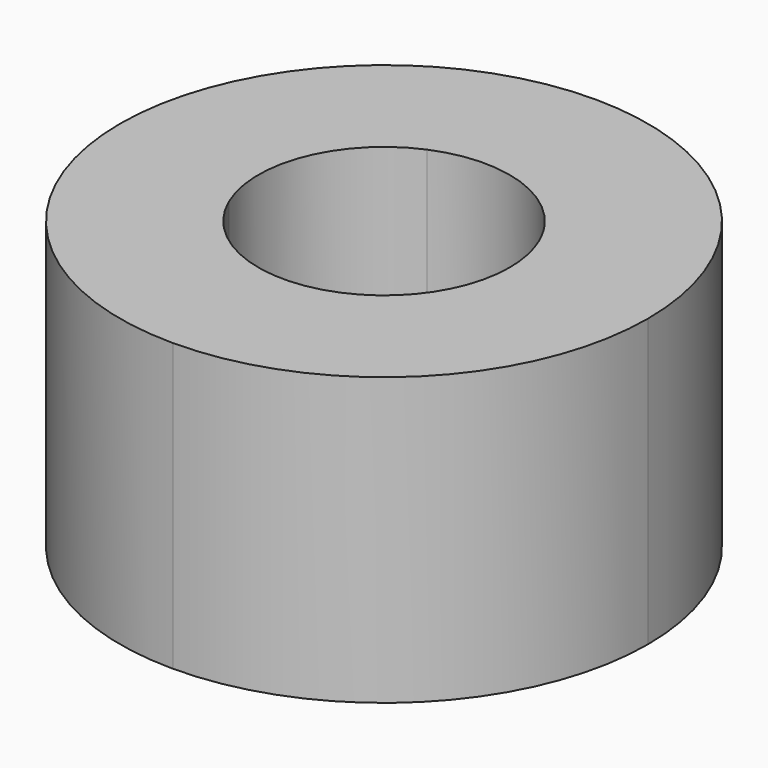
from build123d import *

# Parameters (mm, degrees)
F1_DEPTH = 25


with BuildPart() as f1:
    # F0 (on Top) → F1 (new body)
    with BuildSketch(Plane.XY):
        with BuildLine():
            ThreePointArc((0, -23.013084), (-10.622454, -16.666771), (-10.068095, -4.305342))
            ThreePointArc((-10.068095, -4.305342), (-10.163555, 4.074881), (-4.305342, 10.068095))
            ThreePointArc((-4.305342, 10.068095), (-16.666771, 10.622454), (-23.013084, 0))
            ThreePointArc((-23.013084, 0), (-16.272708, -16.272708), (0, -23.013084))
        make_face()
        with BuildLine():
            ThreePointArc((8.884421, 6.400748), (9.533999, 5.385662), (10.068095, 4.305342))
            ThreePointArc((10.068095, 4.305342), (10.622454, 16.666771), (0, 23.013084))
            ThreePointArc((0, 23.013084), (-16.272708, 16.272708), (-23.013084, 0))
            ThreePointArc((-23.013084, 0), (-16.666771, 10.622454), (-4.305342, 10.068095))
            ThreePointArc((-4.305342, 10.068095), (2.933317, 10.549794), (8.884421, 6.400748))
        make_face()
        with BuildLine():
            ThreePointArc((23.013084, 0), (16.666771, -10.622454), (4.305342, -10.068095))
            ThreePointArc((4.305342, -10.068095), (-4.074881, -10.163555), (-10.068095, -4.305342))
            ThreePointArc((-10.068095, -4.305342), (-10.622454, -16.666771), (0, -23.013084))
            ThreePointArc((0, -23.013084), (16.272708, -16.272708), (23.013084, 0))
        make_face()
        with BuildLine():
            ThreePointArc((10.068095, 4.305342), (10.727258, 2.197369), (10.95, 0))
            ThreePointArc((10.95, 0), (9.139092, -6.031542), (4.305342, -10.068095))
            ThreePointArc((4.305342, -10.068095), (16.666771, -10.622454), (23.013084, 0))
            ThreePointArc((23.013084, 0), (16.272708, 16.272708), (0, 23.013084))
            ThreePointArc((0, 23.013084), (10.622454, 16.666771), (10.068095, 4.305342))
        make_face()
    extrude(amount=F1_DEPTH)


solid = f1.part
